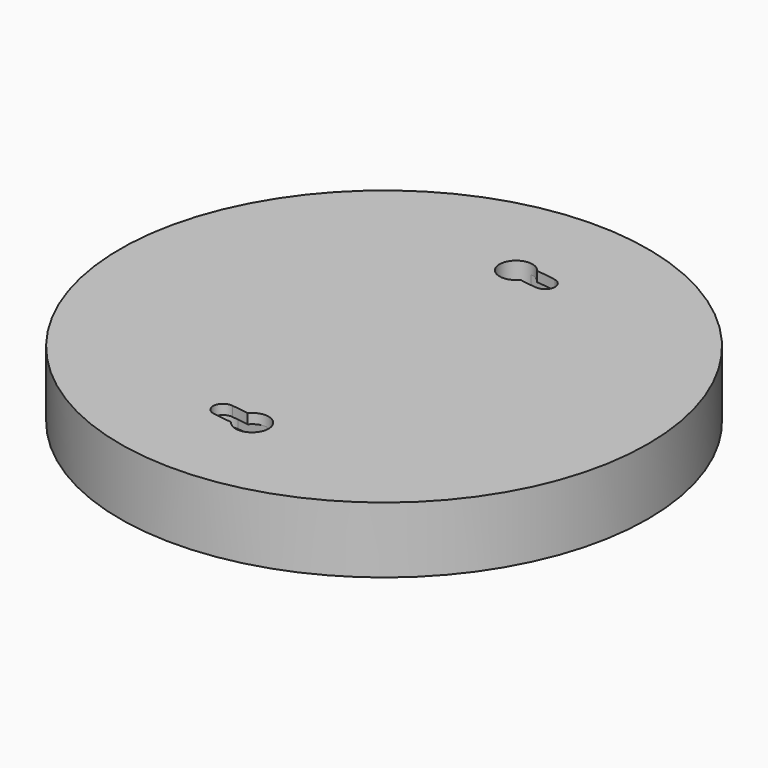
from build123d import *

# Parameters (mm, degrees)
SKETCH_R           = 40
PAD_DEPTH          = 10
POCKET_DEPTH       = 3
POCKET001_DEPTH    = 2
POLARPATTERN_COUNT = 2


with BuildPart() as part:
    # Sketch → Pad (new body)
    with BuildSketch(Plane.XY):
        Circle(SKETCH_R)
    extrude(amount=PAD_DEPTH)

    # Sketch001 (on Face3 of Pad) → Pocket (cut)
    with BuildSketch(Plane.XY.offset(10)):
        with BuildLine():
            ThreePointArc((2.0575713839, 26.42), (-2.4979973918, 25.1000451434), (1.9374209661, 23.42))
            ThreePointArc((1.9374209661, 23.42), (3.2059072994, 23.2092692451), (4.4840211099, 23.0682369219))
            ThreePointArc((4.4840211099, 23.068236922), (6.2426675487, 24.2544758117), (5.0564286589, 26.0131222504))
            ThreePointArc((5.0564286589, 26.0131222505), (3.5628130077, 26.2594052383), (2.0575713839, 26.42))
        make_face()
    pocket = extrude(amount=-POCKET_DEPTH, mode=Mode.SUBTRACT)

    # Sketch002 (on Face3 of Pocket) → Pocket001 (cut)
    with BuildSketch(Plane.XY.offset(8.5)):
        with BuildLine():
            ThreePointArc((0.2396143813, 27.4884904959), (-2.4884904959, 25.2396143813), (-0.2396143813, 22.5115095041))
            Line((-0.2396143813, 22.5115095041), (4.5306105031, 22.0521890903))
            ThreePointArc((4.5306105031, 22.0521890903), (7.2587153803, 24.3010652049), (5.0098392657, 27.0291700821))
            Line((5.0098392657, 27.0291700821), (0.2396143813, 27.4884904959))
        make_face()
    pocket001 = extrude(amount=-POCKET001_DEPTH, mode=Mode.SUBTRACT)

    # PolarPattern: Pocket, Pocket001 ×2 about axis
    polarpattern_axis = Axis((0, 0, 10), (0, 0, 1))
    for i in range(1, POLARPATTERN_COUNT):
        add(pocket.rotate(polarpattern_axis, i * 360 / POLARPATTERN_COUNT), mode=Mode.SUBTRACT)
        add(pocket001.rotate(polarpattern_axis, i * 360 / POLARPATTERN_COUNT), mode=Mode.SUBTRACT)


solid = part.part
